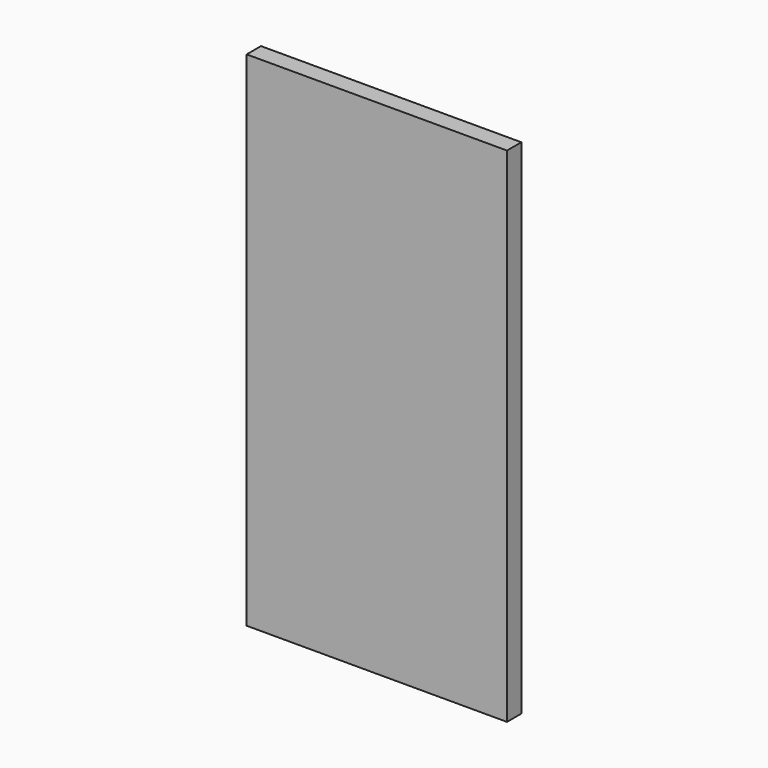
from build123d import *

# Parameters (mm, degrees)
F0_W     = 33.168049
F0_H     = 64.079772
F1_DEPTH = 2.286


with BuildPart() as f1:
    # F0 (on Front) → F1 (new body)
    with BuildSketch(Plane.XZ):
        with Locations((-0.225632, 2e-06)):
            Rectangle(F0_W, F0_H)
    extrude(amount=F1_DEPTH)


solid = f1.part
